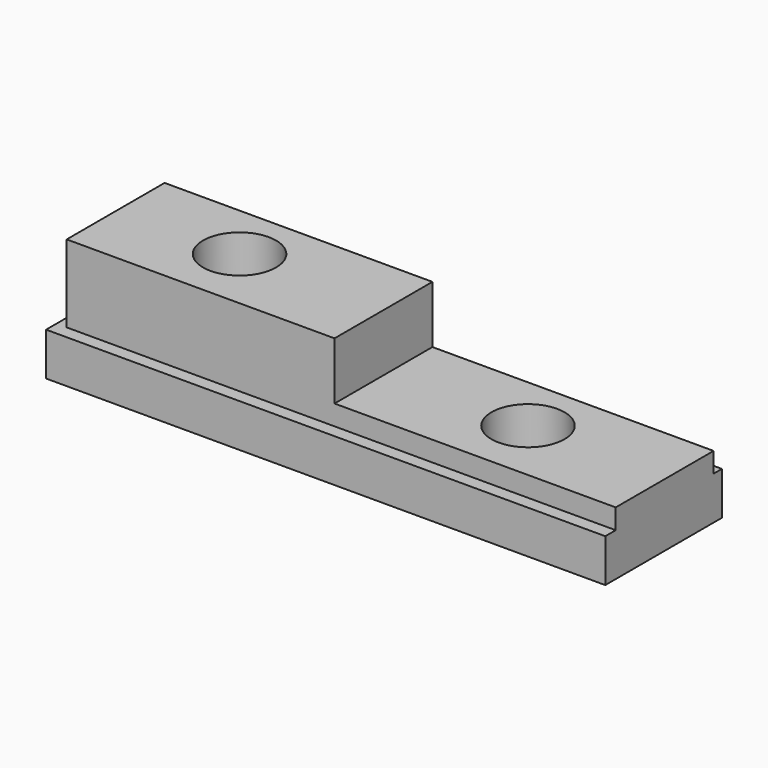
from build123d import *

# Parameters (mm, degrees)
F0_W     = 98.998546
F0_H     = 25.809678
F1_DEPTH = 7.62
F2_W     = 97.194314
F2_H     = 21.661694
F3_DEPTH = 3.556
F4_W     = 47.418509
F4_H     = 21.661694
F5_DEPTH = 10.16
F6_R     = 6.469009
F6_R_2   = 6.469136
F7_DEPTH = 21.844


with BuildPart() as f1:
    # F0 (on Top) → F1 (new body)
    with BuildSketch(Plane.XY):
        with Locations((0.276532, -0.921774)):
            Rectangle(F0_W, F0_H)
    extrude(amount=F1_DEPTH)

    # F2 (on face) → F3 (join)
    with BuildSketch(Plane.XY.offset(7.62)):
        with Locations((1.178648, -0.691053)):
            Rectangle(F2_W, F2_H)
    extrude(amount=F3_DEPTH)

    # F4 (on face) → F5 (join)
    with BuildSketch(Plane.XY.offset(11.176)):
        with Locations((-23.709255, -0.691053)):
            Rectangle(F4_W, F4_H)
    extrude(amount=F5_DEPTH)

    # F6 (on face) → F7 (cut)
    with BuildSketch(Plane.XY.offset(21.336)):
        with Locations((-26.033347, 0)):
            Circle(F6_R)
        with Locations((25.032943, 0)):
            Circle(F6_R_2)
    extrude(amount=-F7_DEPTH, mode=Mode.SUBTRACT)


solid = f1.part
